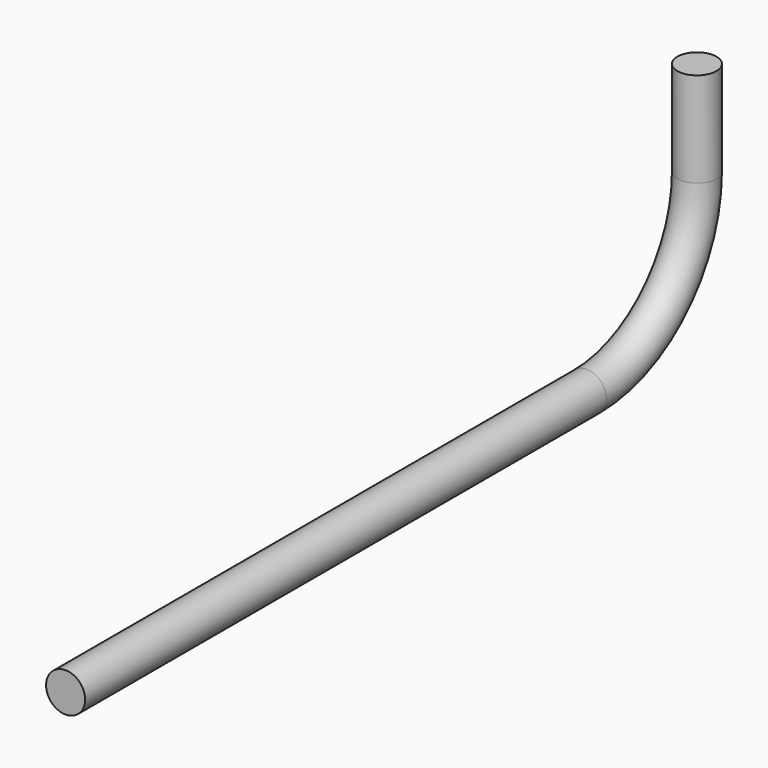
from build123d import *

# Parameters (mm, degrees)
F1_R = 7.1


with BuildPart() as f2:
    # F2: sweep along a path in F0
    with BuildLine(Plane.YZ) as f2_path:
        Line((0, 0), (236.803, 0))
        ThreePointArc((236.803, 0), (272.158339, 14.644661), (286.803, 50))
        Line((286.803, 50), (286.803, 84.5))
    # F1 (on Front) → F2 (sweep)
    with BuildSketch(Plane.XZ):
        Circle(F1_R)
    sweep(path=f2_path.line)


solid = f2.part
